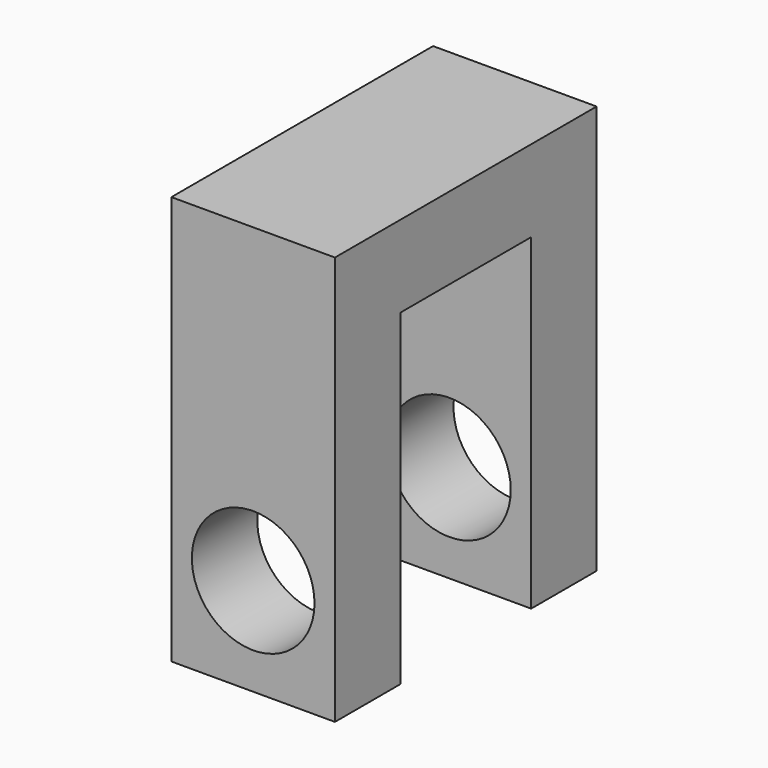
from build123d import *

# Parameters (mm, degrees)
F0_W     = 40
F0_H     = 100
F0_R     = 15
F1_DEPTH = 40
F2_W     = 40
F2_H     = 80
F3_DEPTH = 60


with BuildPart() as f1:
    # F0 (on Front) → F1 (new body, symmetric)
    with BuildSketch(Plane.XZ):
        Rectangle(F0_W, F0_H)
        with Locations((0, -26.0889567435)):
            Circle(F0_R, mode=Mode.SUBTRACT)
    extrude(amount=F1_DEPTH, both=True)

    # F2 (on face) → F3 (cut, symmetric)
    with BuildSketch(Plane(origin=(-20, 0, 0), x_dir=(0, -1, 0), z_dir=(-1, 0, 0))):
        with Locations((0, -10)):
            Rectangle(F2_W, F2_H)
    extrude(amount=F3_DEPTH, both=True, mode=Mode.SUBTRACT)


solid = f1.part
